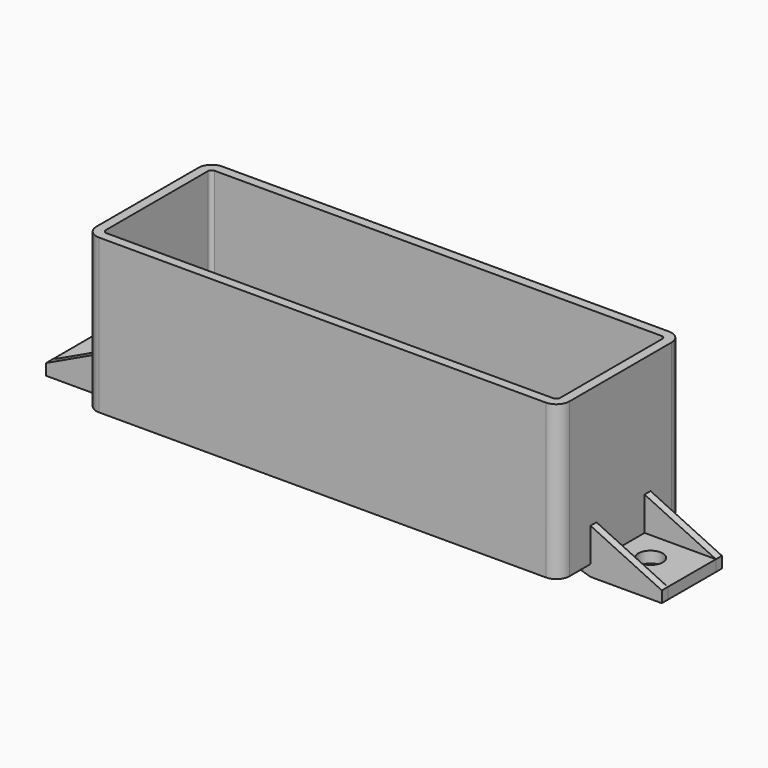
from build123d import *

# Parameters (mm, degrees)
F0_W     = 126
F0_H     = 41
F0_W_2   = 121
F0_H_2   = 36
F1_DEPTH = 41
F2_DEPTH = 3
F3_W     = 10
F3_H     = 2
F3_H_2   = 16
F4_DEPTH = 3
F5_DEPTH = 3
F6_DEPTH = 6
F8_DEPTH = 20
F9_R     = 3.5
F10_R    = 1


with BuildPart() as f1:
    # F0 (on Top) → F1 (new body)
    with BuildSketch(Plane.XY):
        Rectangle(F0_W, F0_H)
        Rectangle(F0_W_2, F0_H_2, mode=Mode.SUBTRACT)
    extrude(amount=F1_DEPTH)

    # F0 (on Top) → F2 (join)
    with BuildSketch(Plane.XY):
        Rectangle(F0_W_2, F0_H_2)
    extrude(amount=F2_DEPTH)

    # F3 (on Top) → F4 (join, symmetric)
    with BuildSketch(Plane.XY):
        Polygon((-82, 8), (-81.9793343544, 8), (-63, 8), (-63, 10), (-82, 10), align=None)
        with Locations((-58, 9)):
            Rectangle(F3_W, F3_H)
        with Locations((-58, 0)):
            Rectangle(F3_W, F3_H_2)
        Polygon((-63, -10), (-63, -8), (-81.9793343544, -8), (-82, -10), align=None)
        with Locations((-58, -9)):
            Rectangle(F3_W, F3_H)
        Polygon((81.9793343544, -8), (63, -8), (63, -10), (82, -10), align=None)
        with Locations((58, -9)):
            Rectangle(F3_W, F3_H)
        with Locations((58, 0)):
            Rectangle(F3_W, F3_H_2)
        with Locations((58, 9)):
            Rectangle(F3_W, F3_H)
        Polygon((63, 8), (81.9793343544, 8), (82, 8), (82, 10), (63, 10), align=None)
    extrude(amount=F4_DEPTH, both=True)

    # F3 (on Top) → F5 (join)
    with BuildSketch(Plane.XY):
        Polygon((82, 8), (81.9793343544, 8), (63, 8), (63, -8), (81.9793343544, -8), (81.9896671772, 0), align=None)
        with BuildLine():
            ThreePointArc((74.2396763525, 0.0142076195), (74.2396756748, 0.0121087662), (74.2396736416, 0.0100099137))
            ThreePointArc((74.2396736416, 0.0100099137), (67.7396770302, 0.0163064728), (74.2396763525, 0.0142076195))
        make_face(mode=Mode.SUBTRACT)
        Polygon((-63, 8), (-81.9793343544, 8), (-82, 8), (-81.9896671772, 0), (-81.9793343544, -8), (-63, -8), align=None)
        with BuildLine():
            ThreePointArc((-67.7396763525, 0.0142076195), (-70.9875774992, -3.2357917028), (-74.2396736416, 0.0100099137))
            ThreePointArc((-74.2396736416, 0.0100099137), (-70.9917752058, 3.2642069418), (-67.7396763525, 0.0142076195))
        make_face(mode=Mode.SUBTRACT)
    extrude(amount=-F5_DEPTH)

    # F6 (add): faces of the model
    f6_faces = [f1.faces().sort_by_distance(p)[0] for p in [
        (-72.5, 9, 3),
        (-72.4948345257, -9.0001813762, 3),
        (72.5, 9, 3),
        (72.4948345257, -9.0001813762, 3),
    ]]
    extrude(f6_faces, amount=F6_DEPTH)

    # F7 (on face) → F8 (cut)
    with BuildSketch(Plane.XZ.offset(10)):
        Polygon((63, 9), (82, 0), (82, 9), align=None)
        Polygon((53, -3), (63, -3), (53, 0), align=None)
        Polygon((-82, 9), (-82, 0), (-63, 9), align=None)
        Polygon((-53, 0), (-63, -3), (-53, -3), align=None)
    extrude(amount=-F8_DEPTH, mode=Mode.SUBTRACT)

    # F9
    f9_edges = [f1.edges().sort_by_distance(p)[0] for p in [
        (-63, -20.5, 20.5),
        (-63, 20.5, 20.5),
        (63, 20.5, 20.5),
        (63, -20.5, 20.5),
    ]]
    fillet(f9_edges, radius=F9_R)

    # F10
    f10_edges = [f1.edges().sort_by_distance(p)[0] for p in [
        (0, -18, 3),
        (60.5, 0, 3),
        (60.5, -18, 22),
        (0, 18, 3),
        (60.5, 18, 22),
        (-60.5, 0, 3),
        (-60.5, 18, 22),
        (-60.5, -18, 22),
    ]]
    fillet(f10_edges, radius=F10_R)


solid = f1.part
